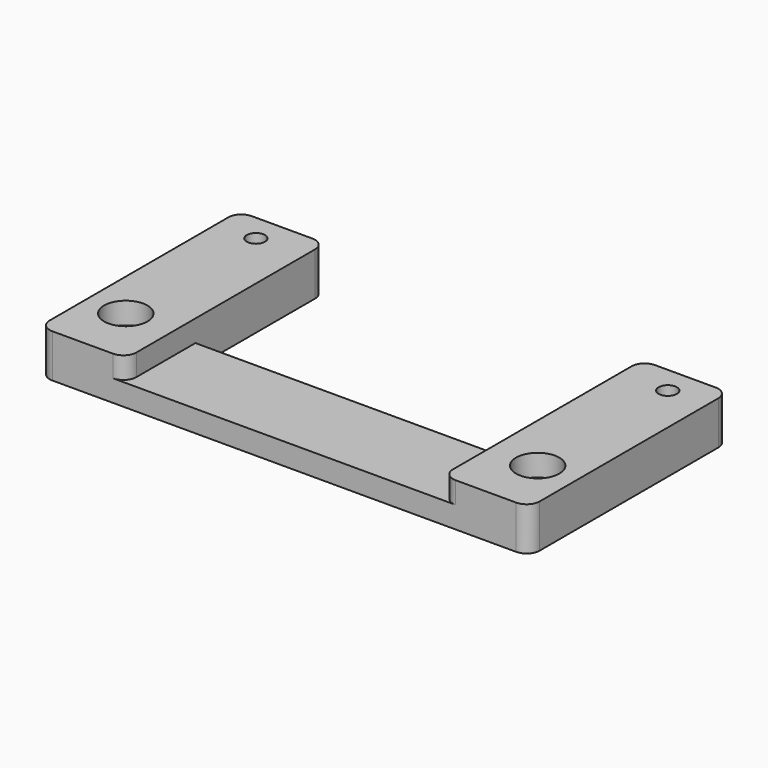
from build123d import *

# Parameters (mm, degrees)
F0_W     = 73
F0_H     = 20
F1_DEPTH = 10
F2_W     = 73
F2_H     = 20
F3_DEPTH = 5
F4_R     = 2.1
F5_DEPTH = 10.001
F6_R     = 5
F6_R_2   = 2.1
F7_DEPTH = 5
F8_R     = 3


with BuildPart() as f1:
    # F0 (on Top) → F1 (new body)
    with BuildSketch(Plane.XY):
        Polygon((-20, 0), (0, 0), (0, 20), (0, 57.5), (-20, 57.5), align=None)
        with Locations((36.5, 10)):
            Rectangle(F0_W, F0_H)
        Polygon((73, 20), (73, 0), (93, 0), (93, 57.5), (73, 57.5), align=None)
    extrude(amount=F1_DEPTH)

    # F2 (on face) → F3 (cut)
    with BuildSketch(Plane.XY.offset(10)):
        with Locations((36.5, 10)):
            Rectangle(F2_W, F2_H)
    extrude(amount=-F3_DEPTH, mode=Mode.SUBTRACT)

    # F4 (on face) → F5 (cut, through all)
    with BuildSketch(Plane.XY.offset(10)):
        with Locations((-11, 13.6832475166)):
            Circle(F4_R)
        with Locations((84, 13.563519451)):
            Circle(F4_R)
        with Locations((-11, 51.1832475166)):
            Circle(F4_R)
        with Locations((84, 51.1832475166)):
            Circle(F4_R)
    extrude(amount=-F5_DEPTH, mode=Mode.SUBTRACT)

    # F6 (on face) → F7 (cut)
    with BuildSketch(Plane.XY.offset(10)):
        with Locations((-11, 13.6832475166)):
            Circle(F6_R)
        with Locations((-11, 13.6832475166)):
            Circle(F6_R_2, mode=Mode.SUBTRACT)
        with Locations((84, 13.6832475166)):
            Circle(F6_R)
    extrude(amount=-F7_DEPTH, mode=Mode.SUBTRACT)

    # F8
    f8_edges = [f1.edges().sort_by_distance(p)[0] for p in [
        (-20, 57.5, 5),
        (0, 57.5, 5),
        (73, 57.5, 5),
        (93, 57.5, 5),
        (-20, 0, 5),
        (93, 0, 5),
        (0, 0, 7.5),
        (73, 0, 7.5),
    ]]
    fillet(f8_edges, radius=F8_R)


solid = f1.part
